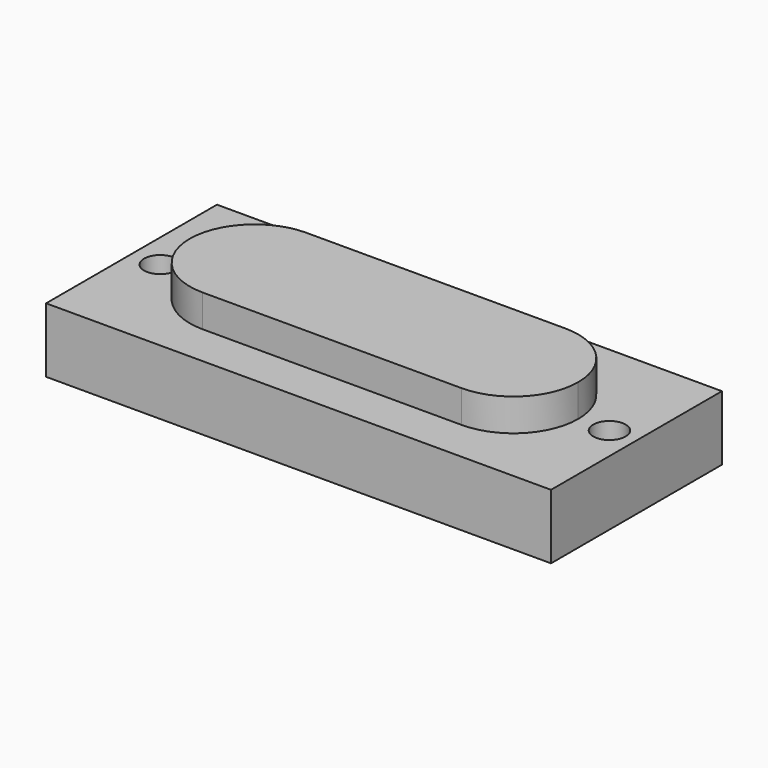
from build123d import *

# Parameters (mm, degrees)
F0_W     = 9.906
F0_H     = 4.191
F1_DEPTH = 1.27
F3_DEPTH = 0.635
F4_R     = 0.3175
F5_DEPTH = 25.4


with BuildPart() as f1:
    # F0 (on Top) → F1 (new body)
    with BuildSketch(Plane.XY):
        Rectangle(F0_W, F0_H)
    extrude(amount=F1_DEPTH)

    # F2 (on face) → F3 (join)
    with BuildSketch(Plane.XY.offset(1.27)):
        with BuildLine():
            ThreePointArc((3.81, 0), (3.438026, 0.898026), (2.54, 1.27))
            Line((2.54, 1.27), (-2.54, 1.27))
            ThreePointArc((-2.54, 1.27), (-3.438026, 0.898026), (-3.81, 0))
            ThreePointArc((-3.81, 0), (-3.438026, -0.898026), (-2.54, -1.27))
            Line((-2.54, -1.27), (2.54, -1.27))
            ThreePointArc((2.54, -1.27), (3.438026, -0.898026), (3.81, 0))
        make_face()
    extrude(amount=F3_DEPTH)

    # F4 (on face) → F5 (cut)
    with BuildSketch(Plane.XY.offset(1.27)):
        with Locations((4.422641, 0)):
            Circle(F4_R)
        with Locations((-4.389373, 0)):
            Circle(F4_R)
    extrude(amount=-F5_DEPTH, mode=Mode.SUBTRACT)


solid = f1.part
